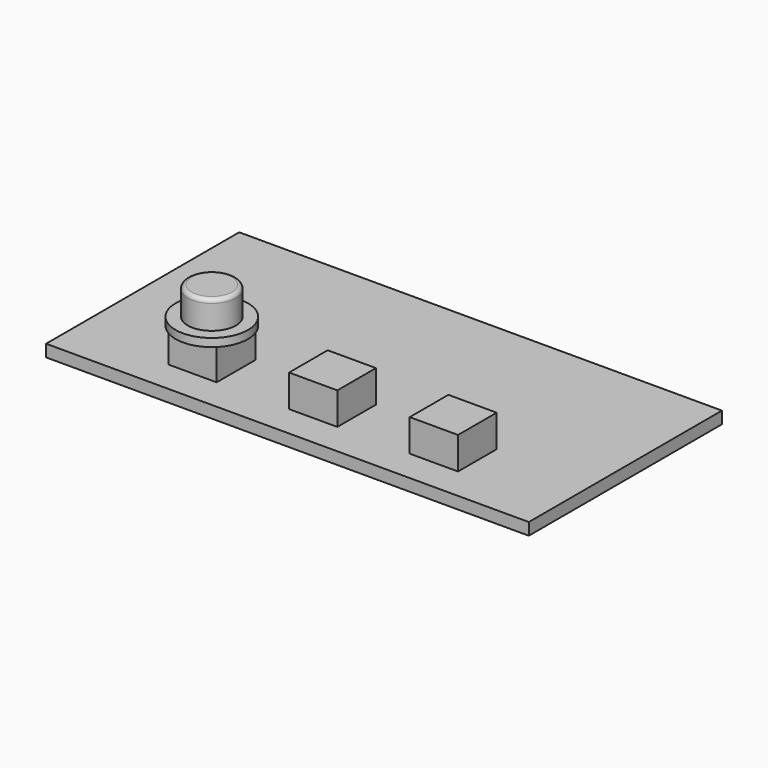
from build123d import *

# Parameters (mm, degrees)
F0_W     = 60
F0_H     = 30
F1_DEPTH = 1.5
F2_W     = 6
F2_H     = 6
F3_DEPTH = 4
F4_R     = 4.5
F5_DEPTH = 1
F6_R     = 3
F7_DEPTH = 3.5
F8_R     = 0.5


with BuildPart() as f1:
    # F0 (on Top) → F1 (new body)
    with BuildSketch(Plane.XY):
        Rectangle(F0_W, F0_H)
    extrude(amount=F1_DEPTH)

    # F2 (on face) → F3 (join)
    with BuildSketch(Plane.XY.offset(1.5)):
        with Locations((-15, -8)):
            Rectangle(F2_W, F2_H)
        with Locations((0, -8)):
            Rectangle(F2_W, F2_H)
        with Locations((15, -8)):
            Rectangle(F2_W, F2_H)
    extrude(amount=F3_DEPTH)


with BuildPart() as f5:
    # F4 (on face) → F5 (new body)
    with BuildSketch(Plane.XY.offset(5.5)):
        with Locations((-15, -8)):
            Circle(F4_R)
    extrude(amount=F5_DEPTH)

    # F6 (on face) → F7 (join)
    with BuildSketch(Plane.XY.offset(6.5)):
        with Locations((-15, -8)):
            Circle(F6_R)
    extrude(amount=F7_DEPTH)

    # F8
    f8_edges = [f5.edges().sort_by_distance(p)[0] for p in [
        (-18, -8, 10),
    ]]
    fillet(f8_edges, radius=F8_R)


solid = Compound([f1.part, f5.part])
